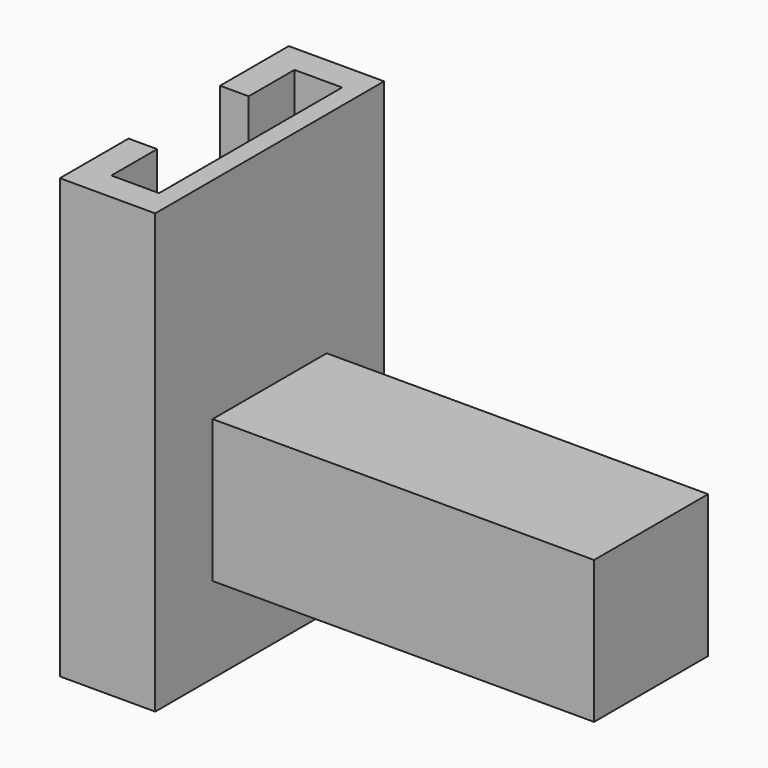
from build123d import *

# Parameters (mm, degrees)
PAD_DEPTH    = 46
SKETCH002_W  = 14.95
SKETCH002_H  = 14.95
PAD001_DEPTH = 40


with BuildPart() as part:
    # Sketch → Pad (new body)
    with BuildSketch(Plane.XY):
        Polygon((-10, 15), (0, 15), (0, -15), (-10, -15), (-10, -6), (-7, -6), (-7, -12), (-2, -12), (-2, 12), (-7, 12), (-7, 6), (-10, 6), align=None)
    extrude(amount=PAD_DEPTH)

    # Sketch002 (on Face2 of Pad) → Pad001 (join)
    with BuildSketch(Plane.YZ):
        with Locations((0, 16.475)):
            Rectangle(SKETCH002_W, SKETCH002_H)
    extrude(amount=PAD001_DEPTH)


solid = part.part
